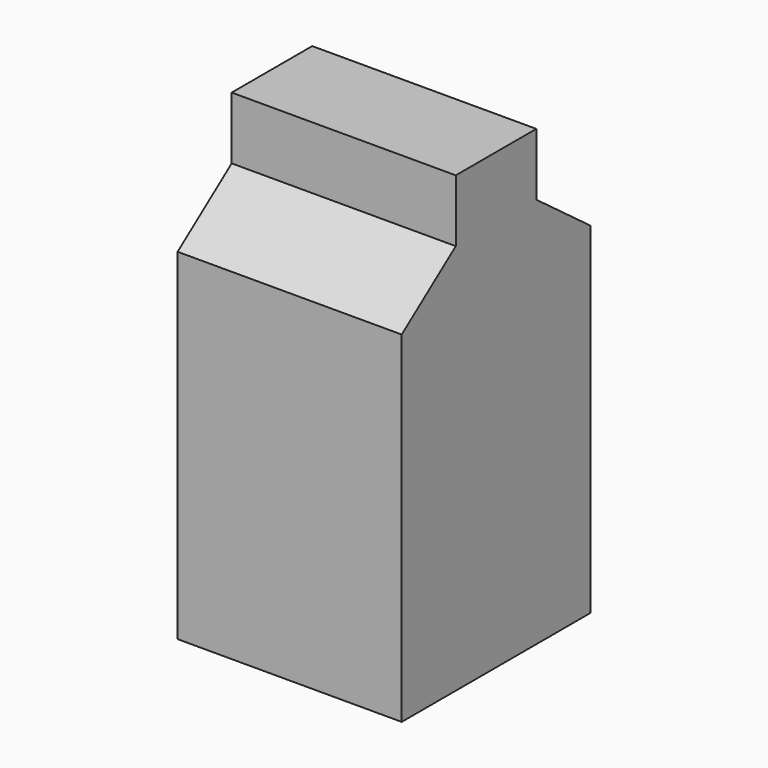
from build123d import *

# Parameters (mm, degrees)
F1_DEPTH = 60.198


with BuildPart() as f1:
    # F0 (on Right) → F1 (new body)
    with BuildSketch(Plane.YZ):
        Polygon((-31.681135, 37.230378), (-31.681135, -54.382585), (31.681135, -54.382585), (31.681135, 37.230378), (13.519976, 50.750352), (13.519976, 67.498982), (0, 67.498982), (-13.519976, 67.498982), (-13.519976, 50.750352), align=None)
    extrude(amount=F1_DEPTH)


solid = f1.part
